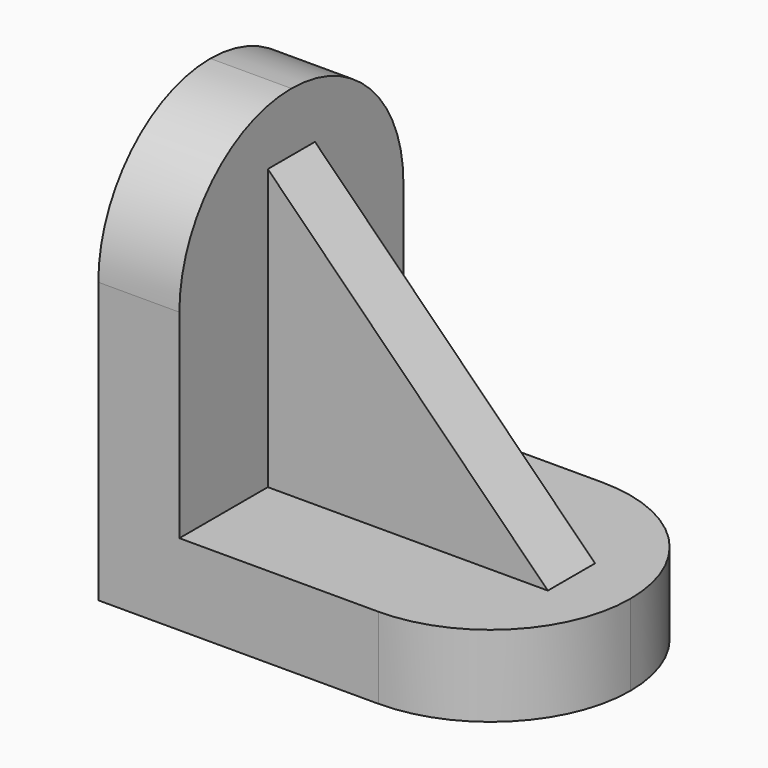
from build123d import *

# Parameters (mm, degrees)
F1_DEPTH = 11
F3_DEPTH = 11
F9_DEPTH = 4


with BuildPart() as f1:
    # F0 (on Right) → F1 (new body)
    with BuildSketch(Plane.YZ):
        with BuildLine():
            Line((-38, 0), (0, 0))
            Line((0, 0), (0, 38))
            ThreePointArc((0, 38), (-5.5649711575, 51.4350288425), (-19, 57))
            ThreePointArc((-19, 57), (-32.4350288425, 51.4350288425), (-38, 38))
            Line((-38, 38), (-38, 0))
        make_face()
    extrude(amount=F1_DEPTH)

    # F2 (on Top) → F3 (join)
    with BuildSketch(Plane.XY):
        with BuildLine():
            Line((38, 0), (0, 0))
            Line((0, 0), (0, -38))
            Line((0, -38), (38, -38))
            ThreePointArc((38, -38), (51.4350288425, -32.4350288425), (57, -19))
            ThreePointArc((57, -19), (51.4350288425, -5.5649711575), (38, 0))
        make_face()
    extrude(amount=F3_DEPTH)

    # F8 (on 3pt) → F9 (join, symmetric)
    with BuildSketch(Plane(origin=(0, -19, 0), x_dir=(-1, 0, 0), z_dir=(0, 1, 0))):
        Polygon((-11, 49), (-49, 11), (-11, 11), align=None)
    extrude(amount=F9_DEPTH, both=True)


solid = f1.part
